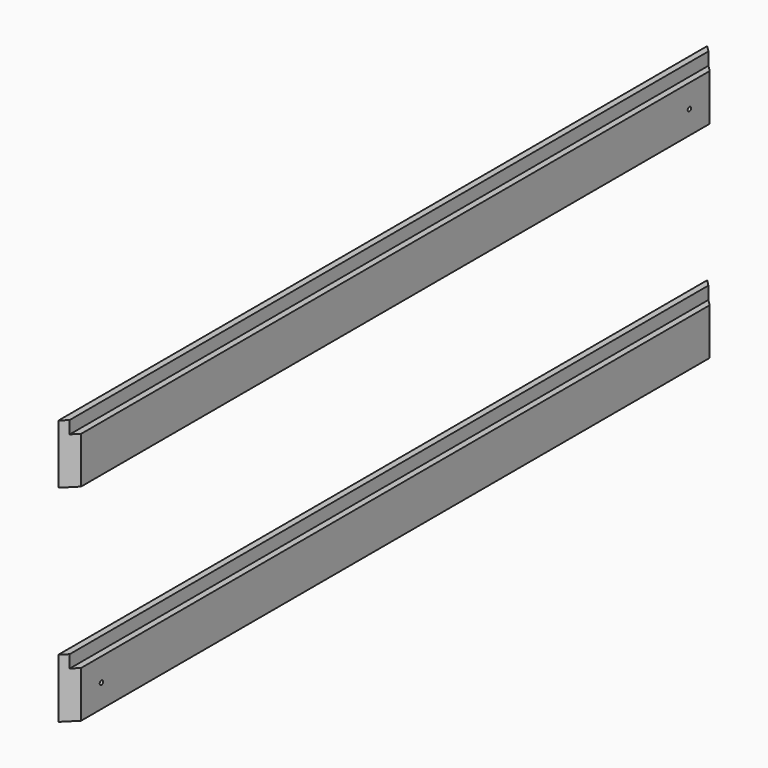
from build123d import *

# Parameters (mm, degrees)
F0_W     = 19.05
F0_H     = 88.9
F1_DEPTH = 1219.2
F3_DEPTH = 88.901
F5_DEPTH = 19.05
F8_D     = 6.35
F10_D    = 6.35


with BuildPart() as f1:
    # F0 (on Front) → F1 (new body)
    with BuildSketch(Plane.XZ):
        Rectangle(F0_W, F0_H)
    extrude(amount=F1_DEPTH)

    # F2 (on face) → F3 (cut, through all)
    with BuildSketch(Plane.XY.offset(44.45)):
        Polygon((9.525, -1200.15), (-9.525, -1219.2), (0, -1219.2), (9.525, -1219.2), align=None)
        Polygon((0, 0), (-9.525, 0), (9.525, -19.05), (9.525, 0), align=None)
    extrude(amount=-F3_DEPTH, mode=Mode.SUBTRACT)

    # F4 (on face) → F5 (cut)
    with BuildSketch(Plane.XY.offset(44.45)):
        Polygon((0, -9.525), (0, -1209.675), (9.525, -1200.15), (9.525, -19.05), align=None)
    extrude(amount=-F5_DEPTH, mode=Mode.SUBTRACT)


with BuildPart() as f6_1:
    # F6: copy of F1
    add(f1.part.moved(Location((0, 0, 309.88))))

    # F8 (through all)
    with Locations(Plane.YZ.offset(9.525)):
        with Locations((-57.15, 300.355)):
            Hole(F8_D / 2)


with BuildPart() as f1_1:
    add(f1.part)

    # F10 (through all)
    with Locations(Plane.YZ.offset(9.525)):
        with Locations((-1162.05, -9.525)):
            Hole(F10_D / 2)


solid = Compound([f6_1.part, f1_1.part])
